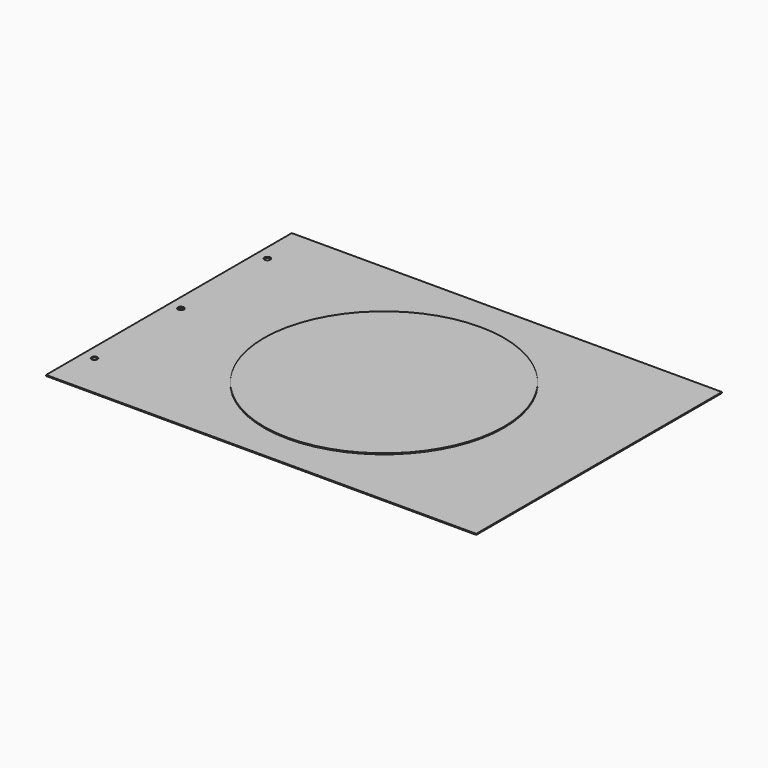
from build123d import *

# Parameters (mm, degrees)
F0_W     = 430
F0_H     = 307
F0_R     = 3
F1_DEPTH = 1
F2_DEPTH = 2


with BuildPart() as f1:
    # F0 (on Top) → F1 (new body)
    with BuildSketch(Plane.XY):
        Rectangle(F0_W, F0_H)
        with Locations((-203, -108)):
            Circle(F0_R, mode=Mode.SUBTRACT)
        with Locations((-203, 0)):
            Circle(F0_R, mode=Mode.SUBTRACT)
        with Locations((-203, 108)):
            Circle(F0_R, mode=Mode.SUBTRACT)
        with BuildLine():
            ThreePointArc((0, 120), (84.852814, 84.852814), (120, 0))
            ThreePointArc((120, 0), (84.852814, -84.852814), (0, -120))
            ThreePointArc((0, -120), (-84.852814, -84.852814), (-120, 0))
            ThreePointArc((-120, 0), (-84.852814, 84.852814), (0, 120))
        make_face(mode=Mode.SUBTRACT)
    extrude(amount=F1_DEPTH)

    # F0 (on Top) → F2 (join)
    with BuildSketch(Plane.XY):
        with BuildLine():
            Line((0, 0), (0, 120))
            ThreePointArc((0, 120), (-84.852814, 84.852814), (-120, 0))
            Line((-120, 0), (0, 0))
        make_face()
        with BuildLine():
            Line((0, 0), (120, 0))
            ThreePointArc((120, 0), (84.852814, 84.852814), (0, 120))
            Line((0, 120), (0, 0))
        make_face()
        with BuildLine():
            ThreePointArc((0, -120), (84.852814, -84.852814), (120, 0))
            Line((120, 0), (0, 0))
            Line((0, 0), (0, -120))
        make_face()
        with BuildLine():
            ThreePointArc((-120, 0), (-84.852814, -84.852814), (0, -120))
            Line((0, -120), (0, 0))
            Line((0, 0), (-120, 0))
        make_face()
    extrude(amount=F2_DEPTH)


solid = f1.part
